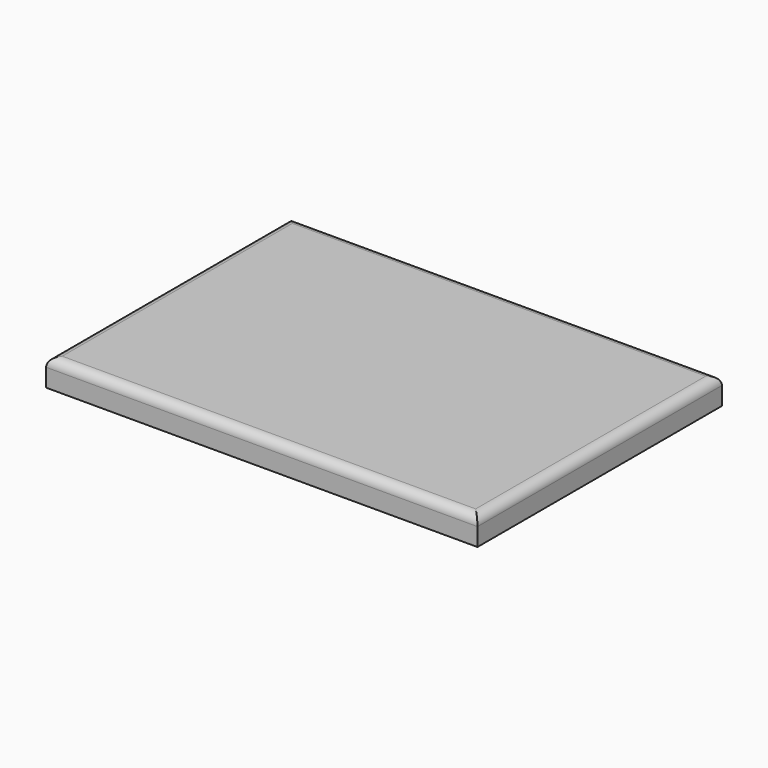
from build123d import *

# Parameters (mm, degrees)
F0_W     = 304.8
F0_H     = 19.05
F1_DEPTH = 215.9
F2_W     = 279.4
F2_H     = 190.5
F3_DEPTH = 6.35
F4_R     = 6.35
F5_R     = 2.5
F6_DEPTH = 6.35


with BuildPart() as f1:
    # F0 (on Front) → F1 (new body)
    with BuildSketch(Plane.XZ):
        Rectangle(F0_W, F0_H)
    extrude(amount=F1_DEPTH)

    # F2 (on face) → F3 (cut)
    with BuildSketch(Plane(origin=(0, 0, -9.525), x_dir=(1, 0, 0), z_dir=(0, 0, -1))):
        with Locations((0, 107.95)):
            Rectangle(F2_W, F2_H)
    extrude(amount=-F3_DEPTH, mode=Mode.SUBTRACT)

    # F4
    f4_edges = [f1.edges().sort_by_distance(p)[0] for p in [
        (-152.4, -107.95, 9.525),
        (0, -215.9, 9.525),
        (152.4, -107.95, 9.525),
        (0, 0, 9.525),
    ]]
    fillet(f4_edges, radius=F4_R)

    # F5 (on face) → F6 (cut)
    with BuildSketch(Plane(origin=(0, 0, -9.525), x_dir=(1, 0, 0), z_dir=(0, 0, -1))):
        with Locations((127, 6.35)):
            Circle(F5_R)
        with Locations((-127, 6.35)):
            Circle(F5_R)
    extrude(amount=-F6_DEPTH, mode=Mode.SUBTRACT)


solid = f1.part
